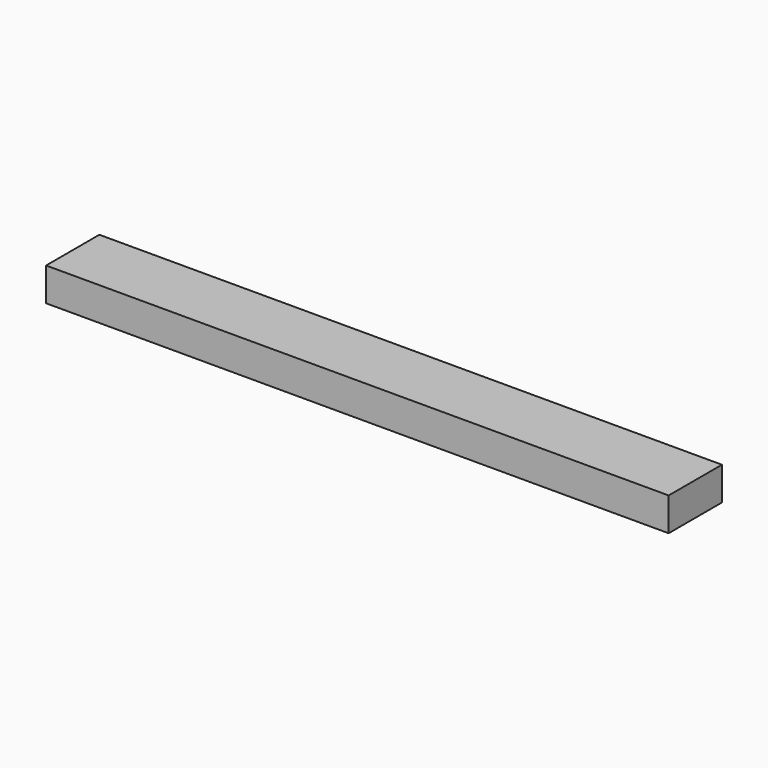
from build123d import *

# Parameters (mm, degrees)
F0_W     = 101.6
F0_H     = 50.8
F1_DEPTH = 500
F2_W     = 25
F2_H     = 101.6
F3_DEPTH = 66.05326


with BuildPart() as f1:
    # F0 (on Right) → F1 (new body, symmetric)
    with BuildSketch(Plane.YZ):
        with Locations((0, 25.4)):
            Rectangle(F0_W, F0_H)
    extrude(amount=F1_DEPTH, both=True)

    # F2 (on face) → F3 (cut)
    with BuildSketch(Plane.XY.offset(50.8)):
        with Locations((-487.5, 0)):
            Rectangle(F2_W, F2_H)
        with Locations((487.5, 0)):
            Rectangle(F2_W, F2_H)
    extrude(amount=-F3_DEPTH, mode=Mode.SUBTRACT)


solid = f1.part
